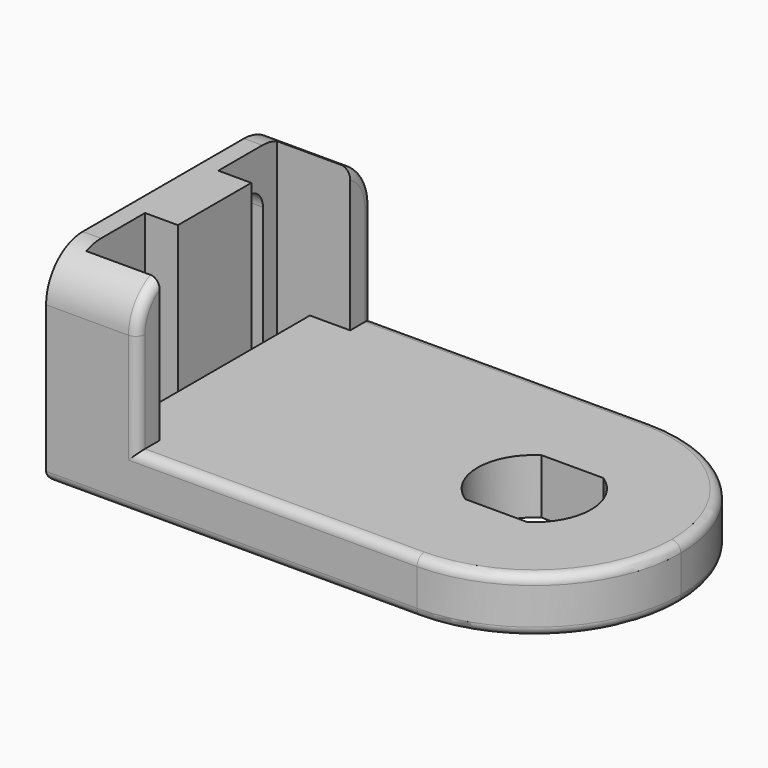
from build123d import *

# Parameters (mm, degrees)
F1_DEPTH  = 6
F2_W      = 10
F2_H      = 32
F3_DEPTH  = 22
F4_W      = 2
F4_H      = 4.2
F5_DEPTH  = 18
F6_R      = 2
F10_DEPTH = 25
F13_DEPTH = 25
F14_R     = 5
F15_R     = 1
F16_R     = 1


with BuildPart() as f1:
    # F0 (on Top) → F1 (new body)
    with BuildSketch(Plane.XY):
        with BuildLine():
            ThreePointArc((0, -16), (11.313708499, -11.313708499), (16, 0))
            ThreePointArc((16, 0), (11.313708499, 11.313708499), (0, 16))
            Line((0, 16), (0, -16))
        make_face()
        with BuildLine():
            Line((0, -16), (0, 16))
            ThreePointArc((0, 16), (-16, 0), (0, -16))
        make_face()
        with BuildLine():
            ThreePointArc((0, -16), (-16, 0), (0, 16))
            Line((0, 16), (-40.5, 16))
            Line((-40.5, 16), (-40.5, -16))
            Line((-40.5, -16), (0, -16))
        make_face()
    extrude(amount=F1_DEPTH)

    # F2 (on Top) → F3 (join)
    with BuildSketch(Plane.XY):
        with Locations((-35.5, 0)):
            Rectangle(F2_W, F2_H)
    extrude(amount=F3_DEPTH)

    # F4 (on Top) → F5 (cut)
    with BuildSketch(Plane.XY):
        Polygon((-34.9, 13), (-38.5, 13), (-38.5, 11.1), (-38.5, 6.9), (-38.5, 5), (-34.9, 5), align=None)
        with Locations((-39.5, 9)):
            Rectangle(F4_W, F4_H)
    extrude(amount=F5_DEPTH, mode=Mode.SUBTRACT)

    # F6
    f6_edges = [f1.edges().sort_by_distance(p)[0] for p in [
        (-39.5, 6.9, 18),
        (-39.5, 11.1, 18),
    ]]
    fillet(f6_edges, radius=F6_R)

    # F7: F1 across plane


with BuildPart() as f1_1:
    add(f1.part)
    add(f1.part.mirror(Plane.XZ), mode=Mode.INTERSECT)

    # F9 (on offset) → F10 (cut)
    with BuildSketch(Plane.XY.offset(6)):
        Polygon((-30.5, 13), (-38.5, 13), (-38.5, 5), (-34.9, 5), (-34.9, -5), (-38.5, -5), (-38.5, -13), (-30.5, -13), align=None)
    extrude(amount=F10_DEPTH, mode=Mode.SUBTRACT)

    # F12 (on face) → F13 (cut)
    with BuildSketch(Plane.XY):
        with BuildLine():
            Line((-3.3763886032, -5.2), (3.3763886032, -5.2))
            ThreePointArc((3.3763886032, -5.2), (6.2, 0), (3.3763886032, 5.2))
            Line((3.3763886032, 5.2), (-3.3763886032, 5.2))
            ThreePointArc((-3.3763886032, 5.2), (-6.2, 0), (-3.3763886032, -5.2))
        make_face()
    extrude(amount=F13_DEPTH, mode=Mode.SUBTRACT)

    # F14
    f14_edges = [f1_1.edges().sort_by_distance(p)[0] for p in [
        (-35.5, 16, 22),
        (-35.5, -16, 22),
    ]]
    fillet(f14_edges, radius=F14_R)

    # F15
    f15_edges = [f1_1.edges().sort_by_distance(p)[0] for p in [
        (-15.25, 16, 6),
        (16, 0, 6),
        (-15.25, -16, 6),
        (-30.5, -16, 11.5),
        (-30.5, 16, 11.5),
    ]]
    fillet(f15_edges, radius=F15_R)

    # F16
    f16_edges = [f1_1.edges().sort_by_distance(p)[0] for p in [
        (-20.25, 16, 0),
        (-40.5, 0, 0),
        (-40.5, 13.55, 0),
        (-40.5, -13.55, 0),
    ]]
    fillet(f16_edges, radius=F16_R)


solid = f1_1.part
